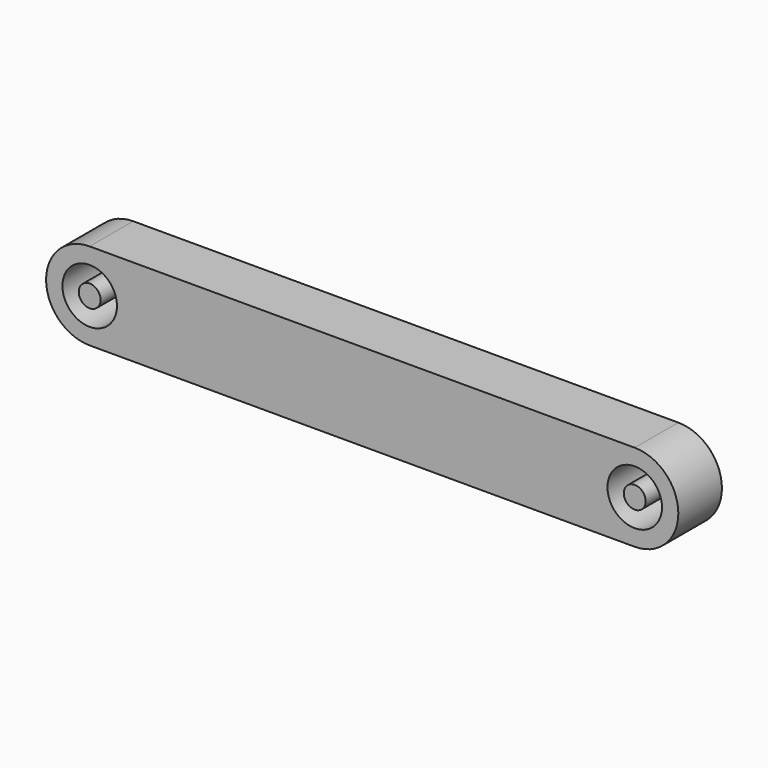
from build123d import *

# Parameters (mm, degrees)
F0_R     = 2.5019
F0_R_2   = 1.0033
F1_DEPTH = 2.5


with BuildPart() as f1:
    # F0 (on Front) → F1 (new body, symmetric)
    with BuildSketch(Plane.XZ):
        with BuildLine():
            ThreePointArc((25.0063, -4.0005), (29.0068, 0), (25.0063, 4.0005))
            Line((25.0063, 4.0005), (-25.0063, 4.0005))
            ThreePointArc((-25.0063, 4.0005), (-29.0068, 0), (-25.0063, -4.0005))
            Line((-25.0063, -4.0005), (25.0063, -4.0005))
        make_face()
        with Locations((-25.0063, 0)):
            Circle(F0_R, mode=Mode.SUBTRACT)
        with Locations((25.0063, 0)):
            Circle(F0_R, mode=Mode.SUBTRACT)
        with Locations((-25.0063, 0)):
            Circle(F0_R_2)
        with Locations((25.0063, 0)):
            Circle(F0_R_2)
    extrude(amount=F1_DEPTH, both=True)


solid = f1.part
